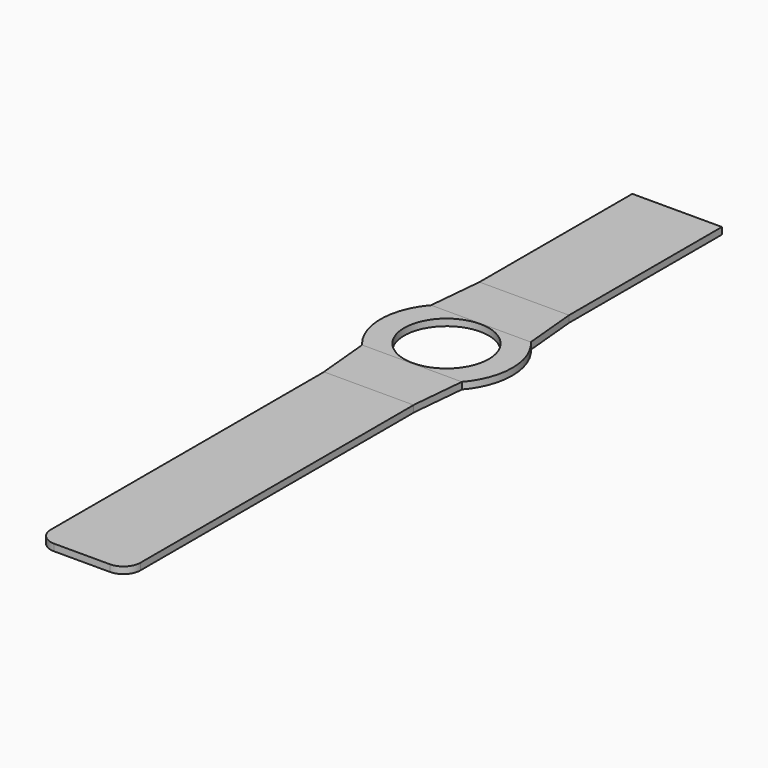
from build123d import *

# Parameters (mm, degrees)
F0_R     = 24.765
F0_R_2   = 15.875
F6_DEPTH = 2.54
F5_W     = 33.655
F5_H     = 71.755


with BuildPart() as f6:
    # F0 (on Top) → F6 (new body)
    with BuildSketch(Plane.XY):
        Circle(F0_R)
        Circle(F0_R_2, mode=Mode.SUBTRACT)
    extrude(amount=-F6_DEPTH)


with BuildPart() as f6b:
    # F3 (on Top) → F6, piece 2 (new body)
    with BuildSketch(Plane.XY):
        Polygon((18.7294483185, -16.1790549755), (-18.7325756997, -16.1790549755), (-16.8275, -36.5125), (16.8275, -36.5125), align=None)
    extrude(amount=-F6_DEPTH)


with BuildPart() as f6c:
    # F3 (on Top) → F6, piece 3 (new body)
    with BuildSketch(Plane.XY):
        Polygon((-16.8275, 36.5125), (-18.7325756997, 16.1791536957), (18.7324658036, 16.1791332066), (16.8275, 36.5125), align=None)
    extrude(amount=-F6_DEPTH)


with BuildPart() as f6d:
    # F4 (on Top) → F6, piece 4 (new body)
    with BuildSketch(Plane.XY):
        with BuildLine():
            Line((16.8858534533, -36.5125), (-16.7691465467, -36.5125))
            Line((-16.7691465467, -36.5125), (-16.7691465467, -164.7825))
            ThreePointArc((-16.7691465467, -164.7825), (-14.9092746073, -169.2726280605), (-10.4191465467, -171.1325))
            Line((-10.4191465467, -171.1325), (10.5358534533, -171.1325))
            ThreePointArc((10.5358534533, -171.1325), (15.0259815138, -169.2726280605), (16.8858534533, -164.7825))
            Line((16.8858534533, -164.7825), (16.8858534533, -36.5125))
        make_face()
    extrude(amount=-F6_DEPTH)


with BuildPart() as f6e:
    # F5 (on Top) → F6, piece 5 (new body)
    with BuildSketch(Plane.XY):
        with Locations((0.0001290286, 72.39)):
            Rectangle(F5_W, F5_H)
    extrude(amount=-F6_DEPTH)


solid = Compound([f6.part, f6b.part, f6c.part, f6d.part, f6e.part])
